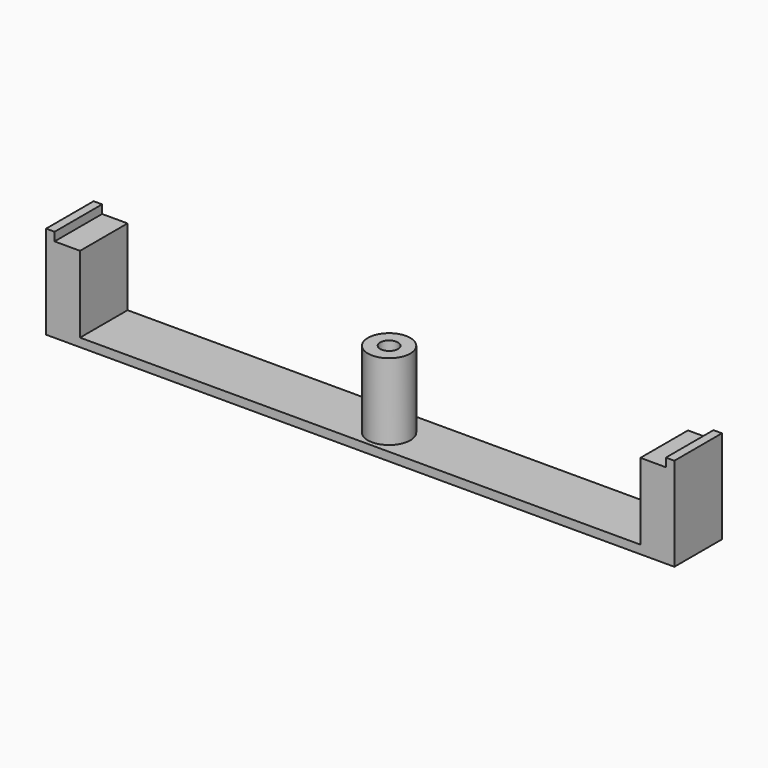
from build123d import *

# Parameters (mm, degrees)
SKETCH027_W             = 74
SKETCH027_H             = 7
PAD018_DEPTH            = 1
SKETCH028_W             = 1
SKETCH028_H             = 7
PAD016_DEPTH            = 10
PAD016_FACE6_W          = 7
PAD016_FACE6_H          = 72
PAD019_DEPTH            = 9
SKETCH031_W             = 66
SKETCH031_H             = 7
POCKET009_DEPTH         = 9
SKETCH032_R             = 2.5
PAD020_DEPTH            = 9
SKETCH030_R             = 1.05
POCKET010_DEPTH         = 5
BODY006_PLACEMENT_ANGLE = 180


with BuildPart() as part:
    # Sketch027 → Pad018 (new body)
    with BuildSketch(Plane.XY):
        with Locations((35, 4.58)):
            Rectangle(SKETCH027_W, SKETCH027_H)
    extrude(amount=PAD018_DEPTH)

    # Sketch028 (on Face6 of Pad018) → Pad016 (join)
    with BuildSketch(Plane.XY.offset(1)):
        with Locations((-1.5, 4.58)):
            Rectangle(SKETCH028_W, SKETCH028_H)
        with Locations((71.5, 4.58)):
            Rectangle(SKETCH028_W, SKETCH028_H)
    extrude(amount=PAD016_DEPTH)

    # Pad016 Face6 → Pad019 (add)
    with BuildSketch(Plane(origin=(35, 4.58, 1), x_dir=(0, 1, 0), z_dir=(0, 0, 1))):
        Rectangle(PAD016_FACE6_W, PAD016_FACE6_H)
    extrude(amount=PAD019_DEPTH)

    # Sketch031 (on Face13 of Pad019) → Pocket009 (cut)
    with BuildSketch(Plane.XY.offset(10)):
        with Locations((35, 4.58)):
            Rectangle(SKETCH031_W, SKETCH031_H)
    extrude(amount=-POCKET009_DEPTH, mode=Mode.SUBTRACT)

    # Sketch032 (on Face7 of Pocket009) → Pad020 (join)
    with BuildSketch(Plane.XY.offset(1)):
        with Locations((34, 5.08)):
            Circle(SKETCH032_R)
    extrude(amount=PAD020_DEPTH)

    # Sketch030 (on Face26 of Pad020) → Pocket010 (cut)
    with BuildSketch(Plane.XY.offset(10)):
        with Locations((34, 5.08)):
            Circle(SKETCH030_R)
    extrude(amount=-POCKET010_DEPTH, mode=Mode.SUBTRACT)


with BuildPart() as part_1:
    # Body006 placement: moved
    add(part.part.moved(Location((75, 71, -10))).rotate(Axis((75, 71, -10), (0, 0, 1)), BODY006_PLACEMENT_ANGLE))


solid = part_1.part
